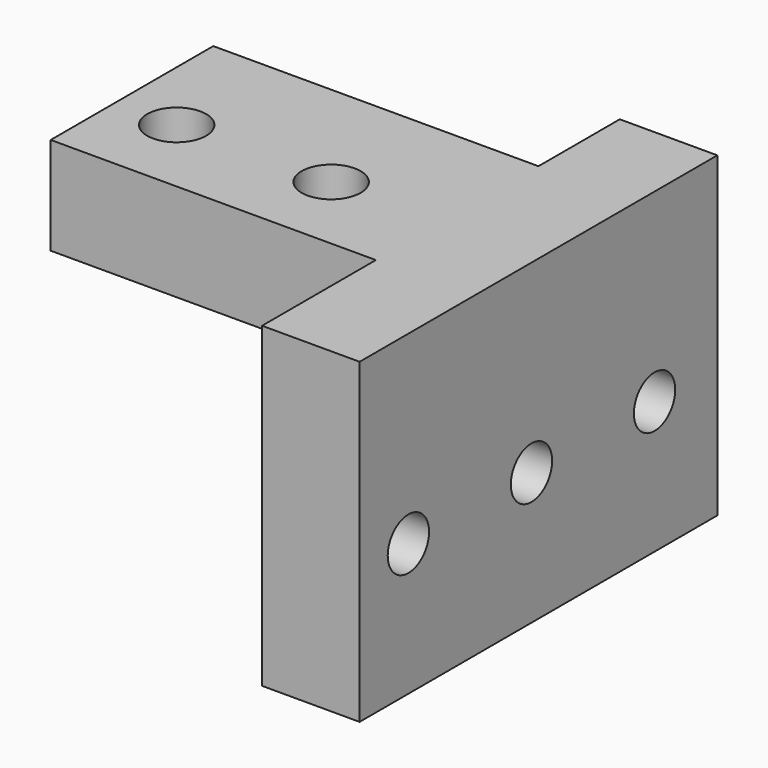
from build123d import *

# Parameters (mm, degrees)
F0_W     = 20.32
F0_H     = 12.7
F0_R     = 1.8415
F1_DEPTH = 6.096
F2_W     = 6.096
F2_H     = 27.94
F3_DEPTH = 19.812
F4_R     = 1.614101
F5_DEPTH = 25.4


with BuildPart() as f1:
    # F0 (on Top) → F1 (new body)
    with BuildSketch(Plane.XY):
        with Locations((10.16, 6.35)):
            Rectangle(F0_W, F0_H)
        with Locations((3.81, 5.08)):
            Circle(F0_R, mode=Mode.SUBTRACT)
        with Locations((13.462, 5.08)):
            Circle(F0_R, mode=Mode.SUBTRACT)
    extrude(amount=F1_DEPTH)

    # F2 (on face) → F3 (join)
    with BuildSketch(Plane.XY.offset(6.096)):
        with Locations((23.368, 5.08)):
            Rectangle(F2_W, F2_H)
    extrude(amount=-F3_DEPTH)

    # F4 (on face) → F5 (cut)
    with BuildSketch(Plane(origin=(20.32, 0, 0), x_dir=(0, -1, 0), z_dir=(-1, 0, 0))):
        with Locations((5.08, -5.461)):
            Circle(F4_R)
        with Locations((-4.5339, -5.461)):
            Circle(F4_R)
        with Locations((-14.1478, -5.461)):
            Circle(F4_R)
    extrude(amount=-F5_DEPTH, mode=Mode.SUBTRACT)


solid = f1.part
